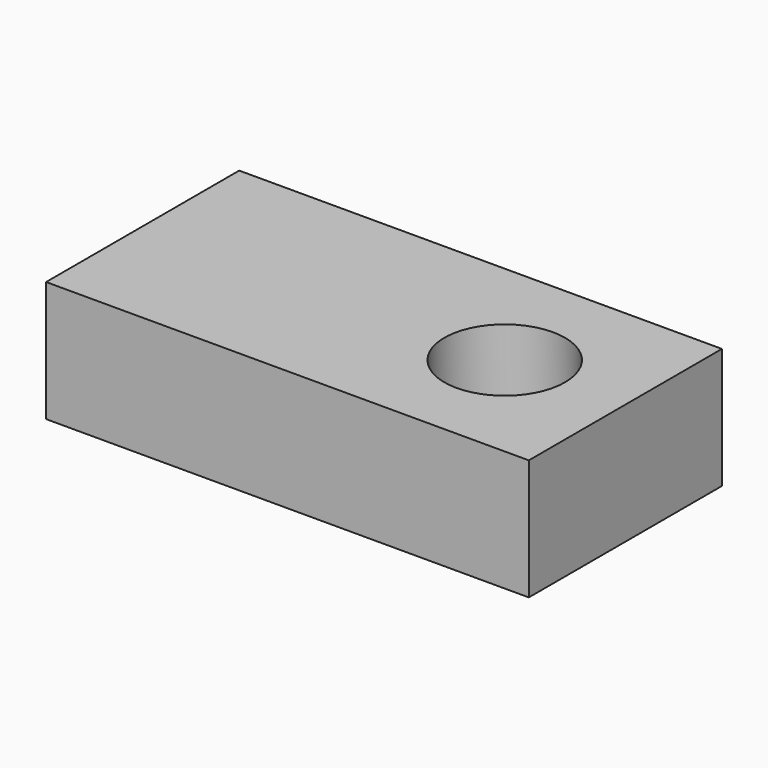
from build123d import *

# Parameters (mm, degrees)
F0_W     = 40
F0_H     = 20
F1_DEPTH = 10
F2_R     = 5
F3_DEPTH = 8


with BuildPart() as f1:
    # F0 (on Top) → F1 (new body)
    with BuildSketch(Plane.XY):
        with Locations((-10, 0)):
            Rectangle(F0_W, F0_H)
    extrude(amount=F1_DEPTH)

    # F2 (on face) → F3 (cut)
    with BuildSketch(Plane.XY.offset(10)):
        Circle(F2_R)
    extrude(amount=-F3_DEPTH, mode=Mode.SUBTRACT)


solid = f1.part
